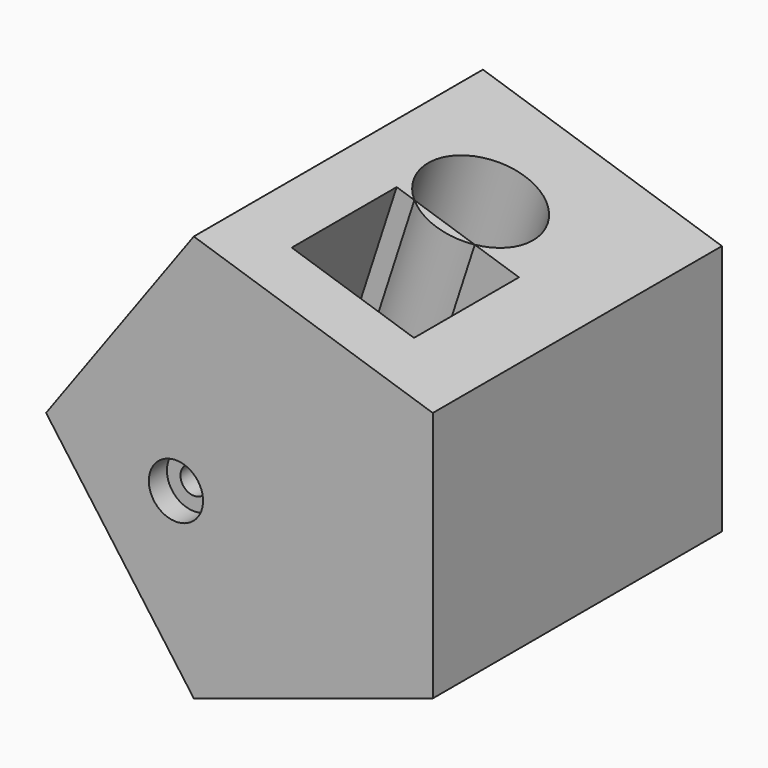
from build123d import *

# Parameters (mm, degrees)
F1_DEPTH       = 80
F3_D           = 6
F3_CBORE_D     = 12
F3_CBORE_DEPTH = 5
F5_D           = 12
F7_DEPTH       = 166.21013


with BuildPart() as f1:
    # F0 (on Front) → F1 (new body)
    with BuildSketch(Plane.XZ):
        Polygon((0, -27.8115294937), (0, 27.8115294937), (-52.9006727063, 45), (-85.5950864666, 0), (-52.9006727063, -45), align=None)
    extrude(amount=F1_DEPTH)

    # F3 (through all)
    with Locations(Plane.XZ.offset(80)):
        with Locations((-56.8502135575, -5.8625130914)):
            CounterBoreHole(F3_D / 2, F3_CBORE_D / 2, F3_CBORE_DEPTH)

    # F5 (through all)
    with Locations(Plane(origin=(-56.0227114099, 0, 40.7028823734), x_dir=(0, -1, 0), z_dir=(-0.8090169944, 0, 0.5877852523))):
        with Locations((24.08846654, -32.5688272715)):
            Hole(F5_D / 2)

    # F6 (on face) → F7 (cut)
    with BuildSketch(Plane(origin=(8.1736034401, 0, 25.1557647469), x_dir=(0.9510565163, 0, -0.3090169944), z_dir=(0.3090169944, 0, 0.9510565163))):
        with BuildLine():
            ThreePointArc((-34.071443869, -38.0934253335), (-30.2688677691, -33.737830155), (-28.8987650684, -28.1205698848))
            ThreePointArc((-28.8987650684, -28.1205698848), (-46.7161306073, -17.2905673169), (-48.126296805, -38.0934253335))
            Line((-48.126296805, -38.0934253335), (-34.071443869, -38.0934253335))
        make_face()
        with BuildLine():
            ThreePointArc((-34.071443869, -38.0934253335), (-41.098870337, -40.3206751534), (-48.126296805, -38.0934253335))
            Line((-48.126296805, -38.0934253335), (-52.2450059652, -38.0934253335))
            Line((-52.2450059652, -38.0934253335), (-52.2450059652, -67.1320259571))
            Line((-52.2450059652, -67.1320259571), (-23.7930361181, -67.1320259571))
            Line((-23.7930361181, -67.1320259571), (-23.7930361181, -38.0934253335))
            Line((-23.7930361181, -38.0934253335), (-34.071443869, -38.0934253335))
        make_face()
    extrude(amount=-F7_DEPTH, mode=Mode.SUBTRACT)


solid = f1.part
